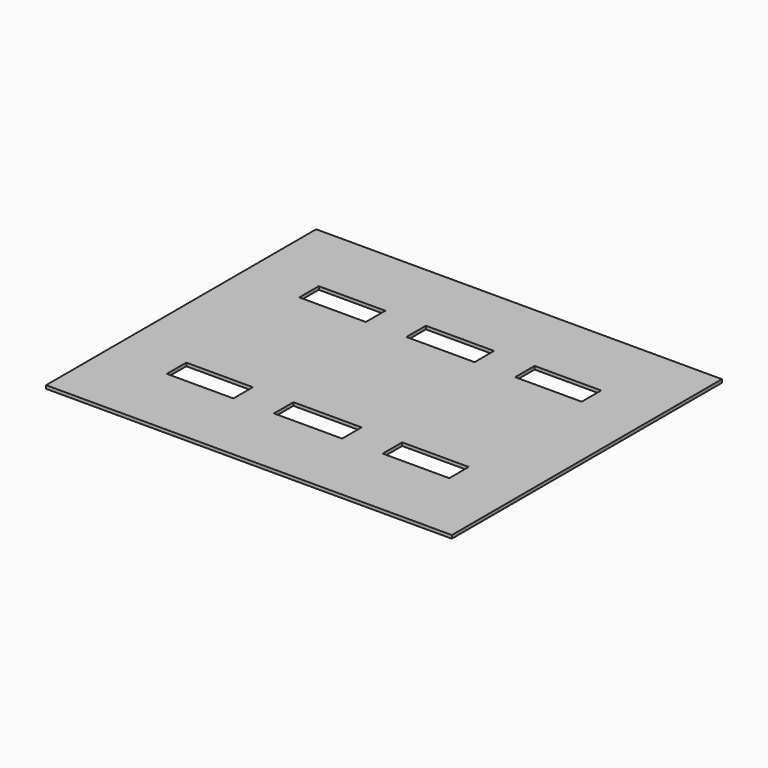
from build123d import *

# Parameters (mm, degrees)
F0_W     = 250
F0_H     = 208
F1_DEPTH = 2
F2_W     = 42
F2_H     = 15
F2_W_2   = 41
F3_DEPTH = 2.001


with BuildPart() as f1:
    # F0 (on Top) → F1 (new body)
    with BuildSketch(Plane.XY):
        Rectangle(F0_W, F0_H)
    extrude(amount=F1_DEPTH)

    # F2 (on face) → F3 (cut, through all)
    with BuildSketch(Plane.XY.offset(2)):
        with Locations((0, 51)):
            Rectangle(F2_W, F2_H)
        with Locations((66.5, 51)):
            Rectangle(F2_W_2, F2_H)
        with Locations((-66.5, 51)):
            Rectangle(F2_W_2, F2_H)
        with Locations((0, -51)):
            Rectangle(F2_W, F2_H)
        with Locations((66.5, -51)):
            Rectangle(F2_W_2, F2_H)
        with Locations((-66.5, -51)):
            Rectangle(F2_W_2, F2_H)
    extrude(amount=-F3_DEPTH, mode=Mode.SUBTRACT)


solid = f1.part
